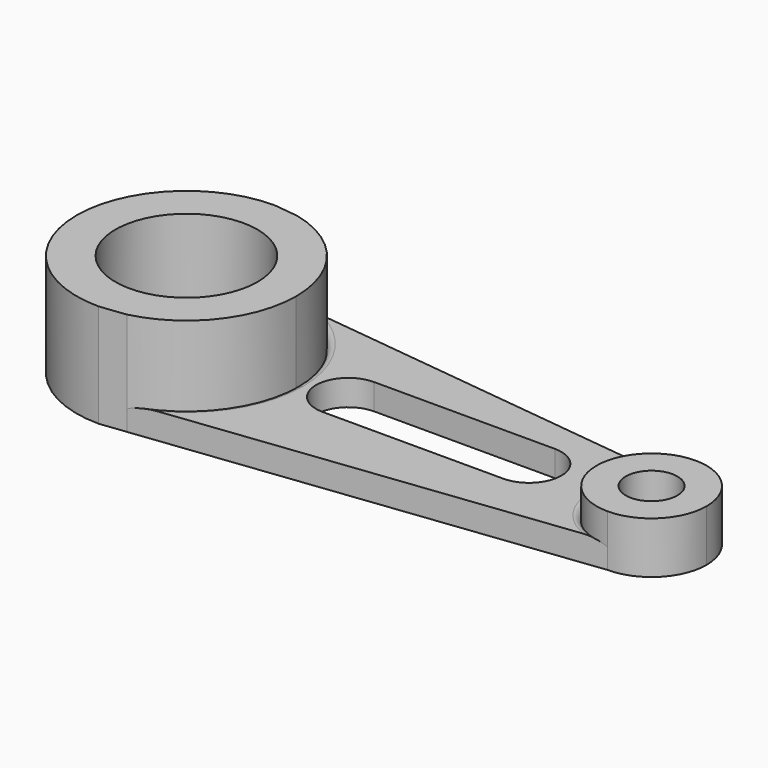
from build123d import *

# Parameters (mm, degrees)
F0_R     = 34.925
F1_DEPTH = 50.8
F0_R_2   = 12.7
F2_DEPTH = 25.4
F3_DEPTH = 12.7
F4_R     = 3.175


with BuildPart() as f1:
    # F0 (on Top) → F1 (new body)
    with BuildSketch(Plane.XY):
        with BuildLine():
            Line((-78.836765, 52.519944), (-91.284901, 53.975))
            ThreePointArc((-91.284901, 53.975), (-145.259901, 0), (-91.284901, -53.975))
            Line((-91.284901, -53.975), (-78.652776, -52.475995))
            ThreePointArc((-78.652776, -52.475995), (-48.887262, -33.402707), (-37.309901, 0))
            ThreePointArc((-37.309901, 0), (-48.94586, 33.476951), (-78.836765, 52.519944))
        make_face()
        with Locations((-91.284901, 0)):
            Circle(F0_R, mode=Mode.SUBTRACT)
    extrude(amount=F1_DEPTH)


with BuildPart() as f2:
    # F0 (on Top) → F2 (new body)
    with BuildSketch(Plane.XY):
        with BuildLine():
            ThreePointArc((164.366099, 0.203071), (156.443044, 19.331017), (137.315099, 27.254071))
            ThreePointArc((137.315099, 27.254071), (110.264099, 0.203071), (137.315099, -26.847929))
            ThreePointArc((137.315099, -26.847929), (156.443044, -18.924874), (164.366099, 0.203071))
        make_face()
        with Locations((137.315099, 0.203071)):
            Circle(F0_R_2, mode=Mode.SUBTRACT)
    extrude(amount=F2_DEPTH)


with BuildPart() as f3:
    # F0 (on Top) → F3 (new body)
    with BuildSketch(Plane.XY):
        with BuildLine():
            Line((137.315099, 27.254071), (-78.836765, 52.519944))
            ThreePointArc((-78.836765, 52.519944), (-48.94586, 33.476951), (-37.309901, 0))
            ThreePointArc((-37.309901, 0), (-48.887262, -33.402707), (-78.652776, -52.475995))
            Line((-78.652776, -52.475995), (137.315099, -26.847929))
            ThreePointArc((137.315099, -26.847929), (110.264099, 0.203071), (137.315099, 27.254071))
        make_face()
        with BuildLine():
            ThreePointArc((-15.084901, -11.616756), (-30.959901, 4.258244), (-15.084901, 20.133244))
            Line((-15.084901, 20.133244), (73.815099, 20.133244))
            ThreePointArc((73.815099, 20.133244), (89.690099, 4.258244), (73.815099, -11.616756))
            Line((73.815099, -11.616756), (-15.084901, -11.616756))
        make_face(mode=Mode.SUBTRACT)
    extrude(amount=F3_DEPTH)

    # F4
    f4_edges = [f3.edges().sort_by_distance(p)[0] for p in [
        (-37.309984, 0.094583, 12.7),
        (110.264099, 0.203071, 12.7),
    ]]
    fillet(f4_edges, radius=F4_R)


solid = Compound([f1.part, f2.part, f3.part])
